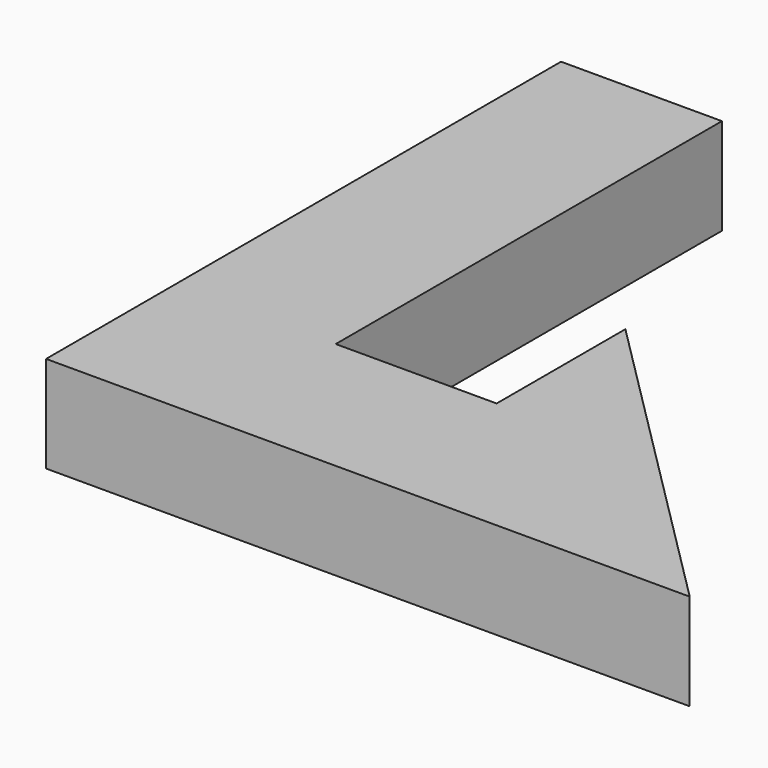
from build123d import *

# Parameters (mm, degrees)
PAD_DEPTH = 3


with BuildPart() as part:
    # Sketch → Pad (new body)
    with BuildSketch(Plane.XY):
        Polygon((0, 0), (0, 20), (5, 20), (5, 5), (10, 5), (10, 10), (20, 0), align=None)
    extrude(amount=PAD_DEPTH)


solid = part.part
